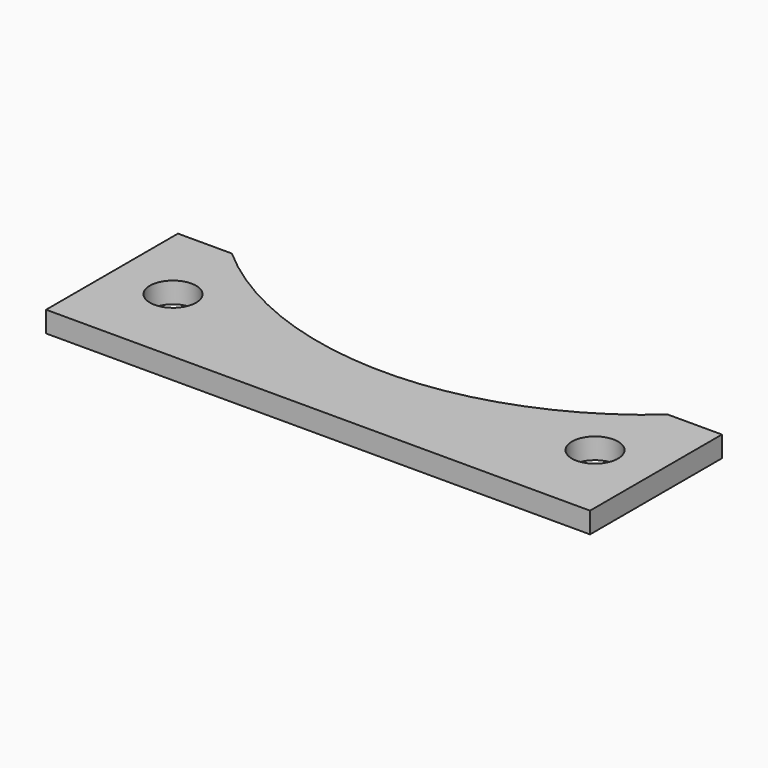
from build123d import *

# Parameters (mm, degrees)
F1_DEPTH = 6.35
F2_D     = 14


with BuildPart() as f1:
    # F0 (on Top) → F1 (new body)
    with BuildSketch(Plane.XY):
        with BuildLine():
            Line((-66.1437827766, 0), (-82.5, 0))
            Line((-82.5, 0), (-82.5, -50))
            Line((-82.5, -50), (82.5, -50))
            Line((82.5, -50), (82.5, 0))
            Line((82.5, 0), (66.1437827766, 0))
            ThreePointArc((66.1437827766, 0), (0, -25), (-66.1437827766, 0))
        make_face()
    extrude(amount=F1_DEPTH)

    # F2 (through all)
    with Locations(Plane(origin=(0, 0, 0), x_dir=(1, 0, 0), z_dir=(0, 0, -1))):
        with Locations((-64, 25), (64, 25)):
            Hole(F2_D / 2)


solid = f1.part
